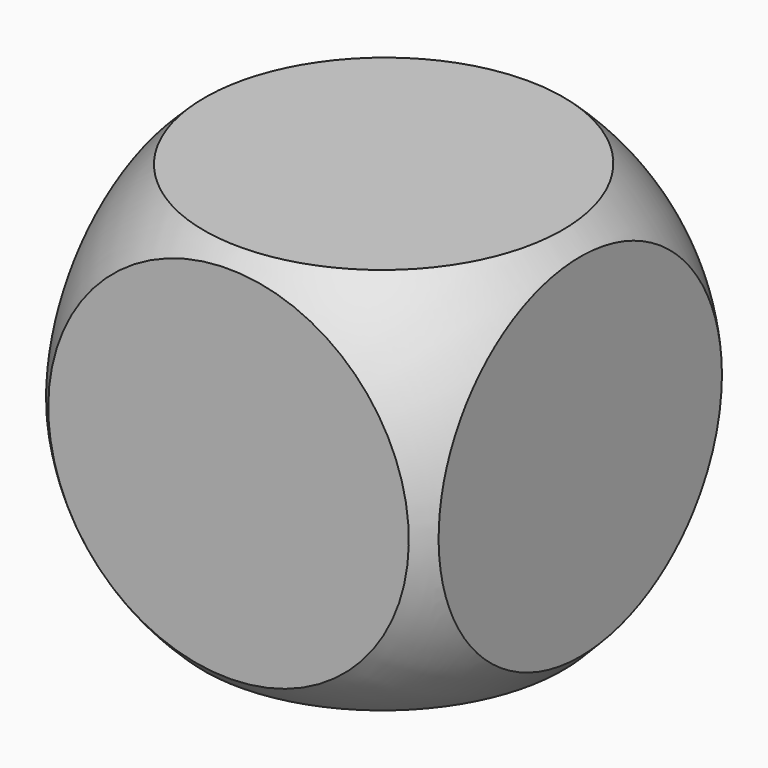
from build123d import *

# Parameters (mm, degrees)
F0_W     = 16
F0_H     = 16
F1_DEPTH = 8


with BuildPart() as f1:
    # F0 (on Top) → F1 (new body, symmetric)
    with BuildSketch(Plane.XY):
        Rectangle(F0_W, F0_H)
    extrude(amount=F1_DEPTH, both=True)

    # F2 (on Top) → F3 (revolve, intersect)
    with BuildSketch(Plane.XY):
        with BuildLine():
            Line((-0.111992, -10.99943), (-0.111992, 10.99943))
            ThreePointArc((-0.111992, 10.99943), (-11, 0), (-0.111992, -10.99943))
        make_face()
    revolve(axis=Axis((-0.111992, 0, 0), (0, -1, 0)), mode=Mode.INTERSECT)


solid = f1.part
